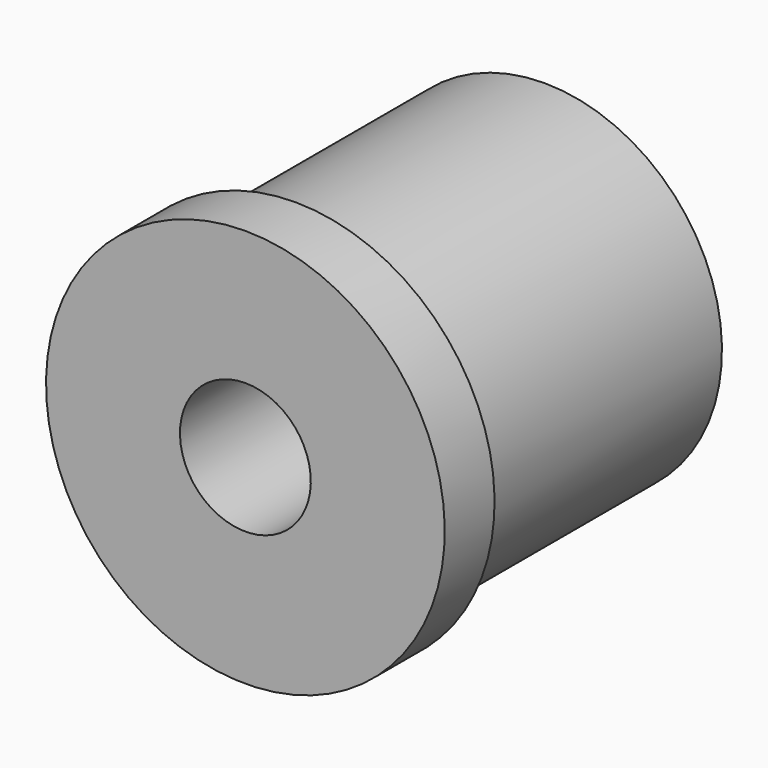
from build123d import *

# Parameters (mm, degrees)
F4_D     = 2
F4_DEPTH = 6.401


with BuildPart() as f2:
    # F1 (on Right) → F2 (revolve)
    with BuildSketch(Plane.YZ):
        Polygon((0, 2.1), (8.9, 2.1), (8.9, 4.05), (12, 4.05), (12, 5.7), (2, 5.7), (2, 6.4), (0, 6.4), align=None)
    revolve(axis=Axis((0, 5.7350749573, 0), (0, -1, 0)))

    # F4 (through all, one way)
    with BuildSketch(Plane.XY):
        with Locations((0, 7)):
            Circle(F4_D / 2)
    extrude(amount=-F4_DEPTH, mode=Mode.SUBTRACT)


solid = f2.part
